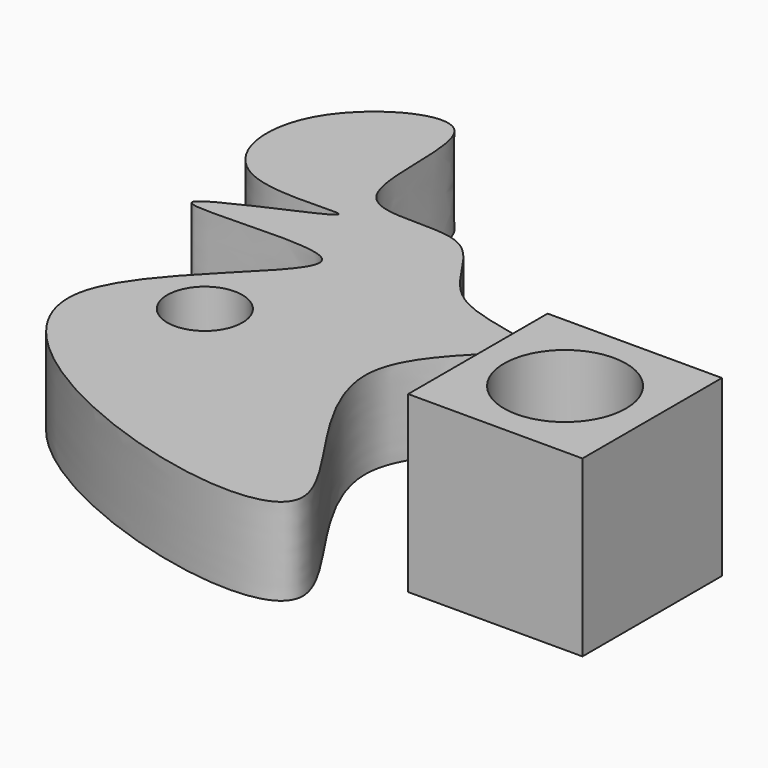
from build123d import *

# Parameters (mm, degrees)
F0_W     = 50
F0_H     = 50
F1_DEPTH = 50
F2_R     = 17.4894470407
F3_DEPTH = 50
F5_DEPTH = 25
F6_R     = 10.7661301685
F7_DEPTH = 25


with BuildPart() as f1:
    # F0 (on Top) → F1 (new body)
    with BuildSketch(Plane.XY):
        Rectangle(F0_W, F0_H)
    extrude(amount=F1_DEPTH)

    # F2 (on face) → F3 (cut)
    with BuildSketch(Plane.XY.offset(50)):
        Circle(F2_R)
    extrude(amount=-F3_DEPTH, mode=Mode.SUBTRACT)


with BuildPart() as f5:
    # F4 (on Top) → F5 (new body)
    with BuildSketch(Plane.XY):
        with BuildLine():
            add(Edge.make_bspline(
                [(-111.0728681087, 51.6988039017), (-104.7562143443, 45.5777798642), (-178.8137421291, 0.1347862151), (-86.4739578631, -51.3629824717), (-19.51490336, -50.4337468088), (-91.658119822, 16.1356775675), (-30.9722538546, 50.9469316282), (-80.2746137747, 50.0711678299), (-86.9248314187, 85.3732702863), (-130.9296530251, 70.5121851415), (-115.8647007729, 133.8839459806), (-164.2774461062, 108.0862674038), (-157.1199045167, 64.9288469807), (-99.8788403911, 76.9005817574), (-181.367027282, 46.8170636431), (-116.4160253032, 56.8764810141), (-111.0728681087, 51.6988039017)],
                knots=[0, 0, 0, 0, 0.085838605, 0.1882383382, 0.2608706155, 0.3517790183, 0.4212684378, 0.4805512968, 0.5425167011, 0.602916453, 0.6730408183, 0.7373104984, 0.8026678062, 0.8614010356, 0.927390486, 1, 1, 1, 1], degree=3))
        make_face()
    extrude(amount=F5_DEPTH)

    # F6 (on face) → F7 (cut)
    with BuildSketch(Plane.XY.offset(25)):
        with Locations((-116.3966059685, 16.3455624133)):
            Circle(F6_R)
    extrude(amount=-F7_DEPTH, mode=Mode.SUBTRACT)


solid = Compound([f1.part, f5.part])
